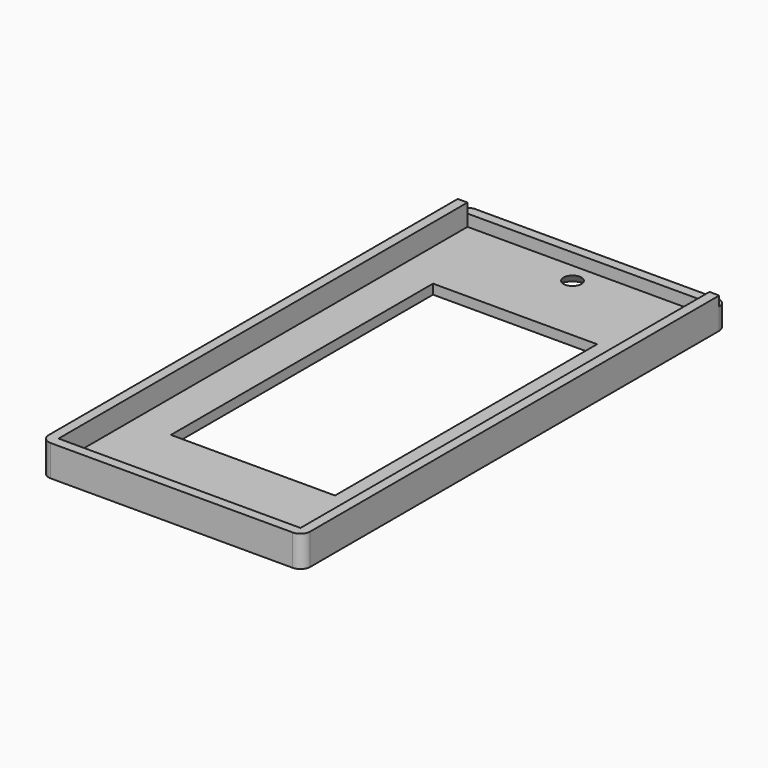
from build123d import *

# Parameters (mm, degrees)
F0_W           = 49.7
F0_H           = 105
F0_W_2         = 33.7
F0_H_2         = 67.3
F1_DEPTH       = 2
F2_DEPTH       = 6.4
F3_DEPTH       = 4.4
F4_D           = 3.4544
F4_CSINK_D     = 7.1374
F4_CSINK_ANGLE = 82
F5_R           = 2


with BuildPart() as f1:
    # F0 (on Top) → F1 (new body)
    with BuildSketch(Plane.XY):
        Rectangle(F0_W, F0_H)
        Rectangle(F0_W_2, F0_H_2, mode=Mode.SUBTRACT)
    extrude(amount=F1_DEPTH)

    # F0 (on Top) → F2 (join)
    with BuildSketch(Plane.XY):
        Polygon((26.85, 52.5), (24.85, 52.5), (24.85, -52.5), (-24.85, -52.5), (-24.85, 52.5), (-26.85, 52.5), (-26.85, -54.5), (26.85, -54.5), align=None)
    extrude(amount=F2_DEPTH)

    # F0 (on Top) → F3 (join)
    with BuildSketch(Plane.XY):
        Polygon((-24.85, 52.5), (24.85, 52.5), (26.85, 52.5), (26.85, 54.5), (-26.85, 54.5), (-26.85, 52.5), align=None)
    extrude(amount=F3_DEPTH)

    # F4 (through all)
    with Locations(Plane(origin=(0, 0, 0), x_dir=(1, 0, 0), z_dir=(0, 0, -1))):
        with Locations((0, -48.4), (0, 48.4)):
            CounterSinkHole(F4_D / 2, F4_CSINK_D / 2, counter_sink_angle=F4_CSINK_ANGLE)

    # F5
    f5_edges = [f1.edges().sort_by_distance(p)[0] for p in [
        (26.85, 54.5, 2.2),
        (26.85, -54.5, 3.2),
        (-26.85, -54.5, 3.2),
        (-26.85, 54.5, 2.2),
    ]]
    fillet(f5_edges, radius=F5_R)


solid = f1.part
